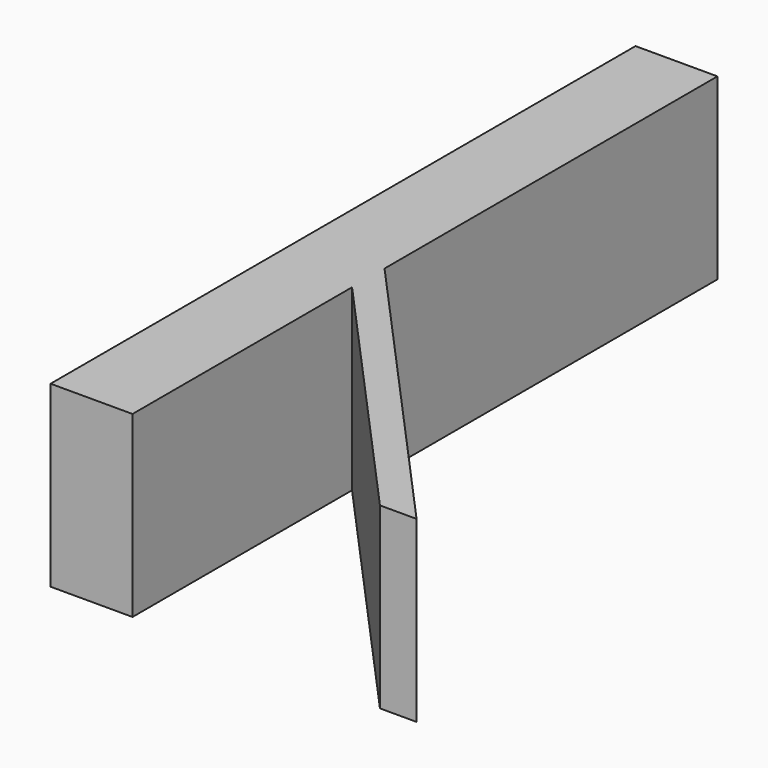
from build123d import *

# Parameters (mm, degrees)
F1_DEPTH = 25
F3_DEPTH = 2.5
F4_W     = 3.6095191927
F4_H     = 104.7
F5_DEPTH = 5.1
F6_DEPTH = 2.5


with BuildPart() as f1:
    # F0 (on Top) → F1 (new body)
    with BuildSketch(Plane.XY):
        Polygon((-21.9167374188, -55.3413778543), (-21.9167374188, -50.0413778543), (-25.5262566115, -50.0413778543), (-25.5262566115, -57.8413778543), (-12.9167374188, -57.8413778543), (-12.9167374188, -15.6176477188), (-12.9167374188, -9.371153079), (-12.9167374188, 34.286143216), (-12.9167374188, 54.6586221457), (-15.4167374188, 54.6586221457), (-15.4167374188, -55.3413778543), (-21.4532855898, -55.3413778543), align=None)
        Polygon((-12.9167374188, -9.371153079), (-12.9167374188, -15.6176477188), (25.1562967896, -57.8413778543), (30.7887457311, -57.8413778543), align=None)
    extrude(amount=F1_DEPTH)

    # F2 (on face) → F3 (join)
    with BuildSketch(Plane.XY.offset(25)):
        Polygon((-15.4167374188, -55.3413778543), (-15.4167374188, 54.6586221457), (-25.5262566115, 54.6586221457), (-25.5262566115, -50.0413778543), (-21.9167374188, -50.0413778543), (-21.9167374188, -55.3413778543), align=None)
        Polygon((-12.9167374188, -9.371153079), (-12.9167374188, 54.6586221457), (-15.4167374188, 54.6586221457), (-15.4167374188, -55.3413778543), (-21.9167374188, -55.3413778543), (-21.9167374188, -50.0413778543), (-25.5262566115, -50.0413778543), (-25.5262566115, -57.8413778543), (-12.9167374188, -57.8413778543), (-12.9167374188, -15.6176477188), align=None)
    extrude(amount=F3_DEPTH)

    # F4 (on face) → F5 (join)
    with BuildSketch(Plane(origin=(0, 0, 25), x_dir=(1, 0, 0), z_dir=(0, 0, -1))):
        with Locations((-23.7214970151, -2.3086221457)):
            Rectangle(F4_W, F4_H)
    extrude(amount=F5_DEPTH)

    # F6 (add, through all): a face of the model
    f6_faces = [f1.faces().sort_by_distance(p)[0] for p in [
        (7.5602195643, -35.1320371457, 25),
    ]]
    extrude(f6_faces, amount=F6_DEPTH)


solid = f1.part
